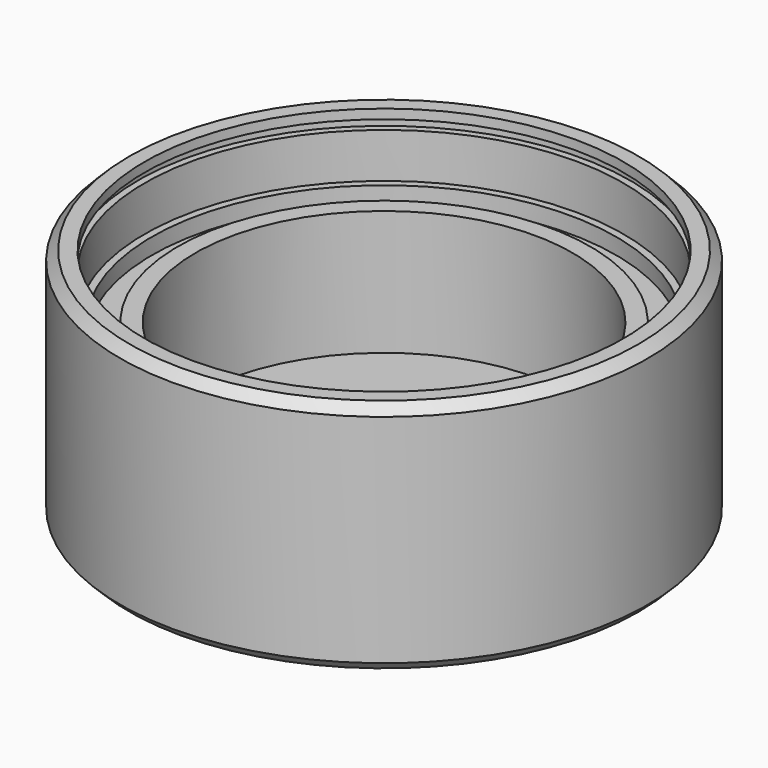
from build123d import *


with BuildPart() as f1:
    # F0 (on Right) → F1 (revolve)
    with BuildSketch(Plane.YZ):
        Polygon((-25.4, 24), (-25.4, 25), (-27, 25), (-28, 24), (-28, 1), (-27, 0), (0, 0), (0, 5), (-20, 5), (-20, 18.2469), (-21.856319, 18.2469), (-21.856319, 16.533197), (-24.620285, 16.533197), (-24.620285, 18.2469), (-25.4, 18.2469), (-25.4, 23.0094), (-26.1239, 23.0094), (-26.1239, 24), align=None)
    revolve(axis=Axis((0, 0, 2.5), (0, 0, 1)))


solid = f1.part
